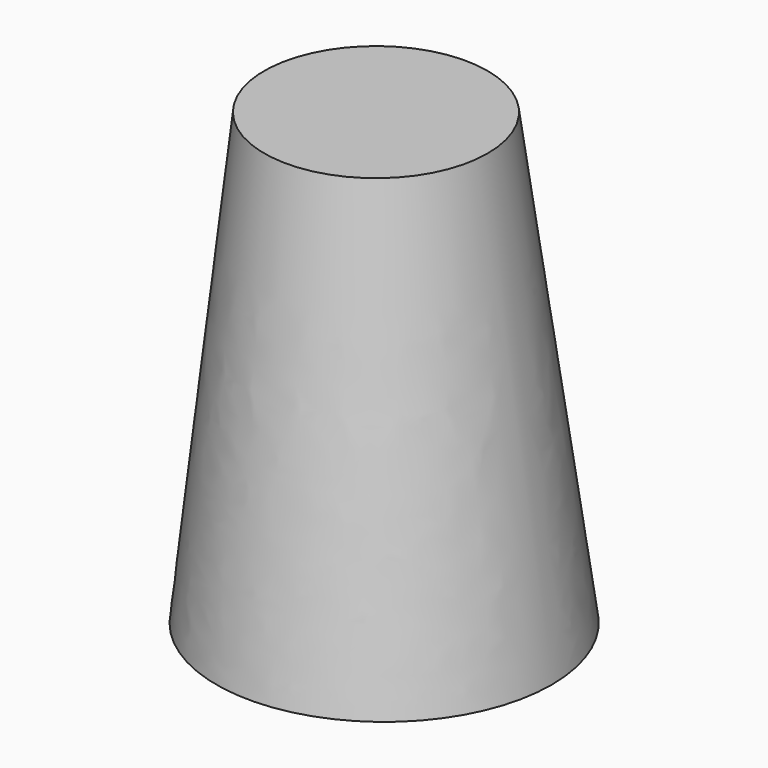
from build123d import *

# Parameters (mm, degrees)
F2_R = 50
F0_R = 75


with BuildPart() as f3:
    # F2 (on offset) → F3 section 0
    with BuildSketch(Plane.XY.offset(200)):
        Circle(F2_R)
    # F0 (on Top) → F3 section 1
    with BuildSketch(Plane.XY):
        with Locations((3.652454, 0)):
            Circle(F0_R)
    loft()


solid = f3.part
